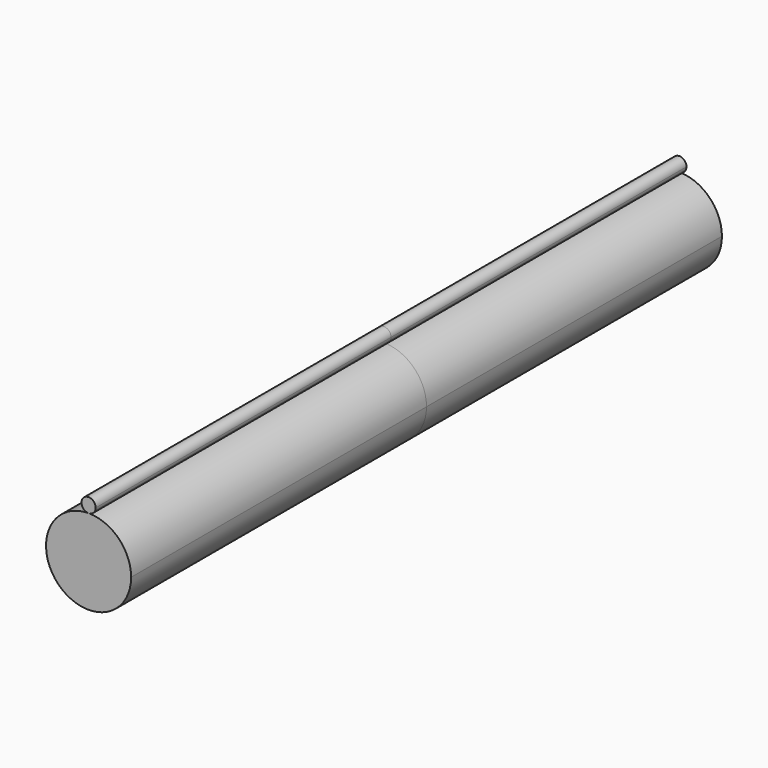
from build123d import *

# Parameters (mm, degrees)
F1_DEPTH = 125


with BuildPart() as f1:
    # F0 (on Front) → F1 (new body, symmetric)
    with BuildSketch(Plane.XZ):
        with BuildLine():
            ThreePointArc((8.1e-09, 14.717375508), (-10.182337652, -9.8649621383), (14.4, 0.317375508))
            ThreePointArc((14.4, 0.317375508), (10.182337652, 10.4997131542), (8.1e-09, 14.717375508))
        make_face()
        with BuildLine():
            ThreePointArc((8.1e-09, 14.717375508), (-10.182337652, -9.8649621383), (14.4, 0.317375508))
            ThreePointArc((14.4, 0.317375508), (10.182337652, 10.4997131542), (8.1e-09, 14.717375508))
        make_face()
    extrude(amount=F1_DEPTH, both=True)


with BuildPart() as f1b:
    # F0 (on Front) → F1, piece 2 (new body, symmetric)
    with BuildSketch(Plane.XZ):
        with BuildLine():
            ThreePointArc((2.4, 17.117375508), (-1.6970562777, 18.8144317799), (8.1e-09, 14.717375508))
            ThreePointArc((8.1e-09, 14.717375508), (1.6970562777, 15.420319236), (2.4, 17.117375508))
        make_face()
    extrude(amount=F1_DEPTH, both=True)


solid = Compound([f1.part, f1b.part])
